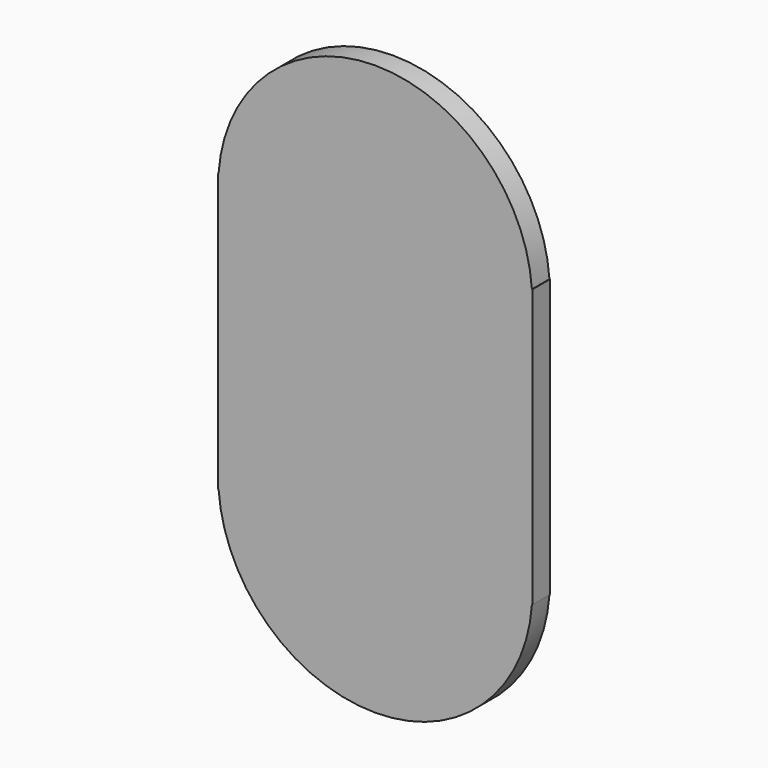
from build123d import *

# Parameters (mm, degrees)
BOX012_W          = 20
BOX012_H          = 20
BOX012_DEPTH      = 20
BOX011_W          = 8.6
BOX011_H          = 14
BOX011_DEPTH      = 7.6
CYLINDER021_R     = 4.3
CYLINDER021_DEPTH = 10
CYLINDER020_R     = 4.3
CYLINDER020_DEPTH = 10


with BuildPart() as cube012:
    # Box012 → Box012 (new body)
    with BuildSketch(Plane(origin=(10, 53.4, -39), x_dir=(1, 0, 0), z_dir=(0, 0, 1))):
        with Locations((10, 10)):
            Rectangle(BOX012_W, BOX012_H)
    extrude(amount=BOX012_DEPTH)


with BuildPart() as cube011:
    # Box011 → Box011 (new body)
    with BuildSketch(Plane(origin=(17.7, 59, -33.3), x_dir=(1, 0, 0), z_dir=(0, 0, 1))):
        with Locations((4.3, 7)):
            Rectangle(BOX011_W, BOX011_H)
    extrude(amount=BOX011_DEPTH)


with BuildPart() as cylinder021:
    # Cylinder021 → Cylinder021 (new body)
    with BuildSketch(Plane(origin=(22, 73, -26), x_dir=(1, 0, 0), z_dir=(0, -1, 0))):
        Circle(CYLINDER021_R)
    extrude(amount=CYLINDER021_DEPTH)


with BuildPart() as obj1:
    # Cylinder020 → Cylinder020 (new body)
    with BuildSketch(Plane(origin=(22, 73, -33), x_dir=(1, 0, 0), z_dir=(0, -1, 0))):
        Circle(CYLINDER020_R)
    extrude(amount=CYLINDER020_DEPTH)

    # Fusion021: union Cube011, Cylinder021
    add(cube011.part)
    add(cylinder021.part)


with BuildPart() as obj1_1:
    # Fusion021 placement: moved
    add(obj1.part.moved(Location((0, 1, 0))))

    # Cut007002: cut Cube012
    add(cube012.part, mode=Mode.SUBTRACT)


solid = obj1_1.part
